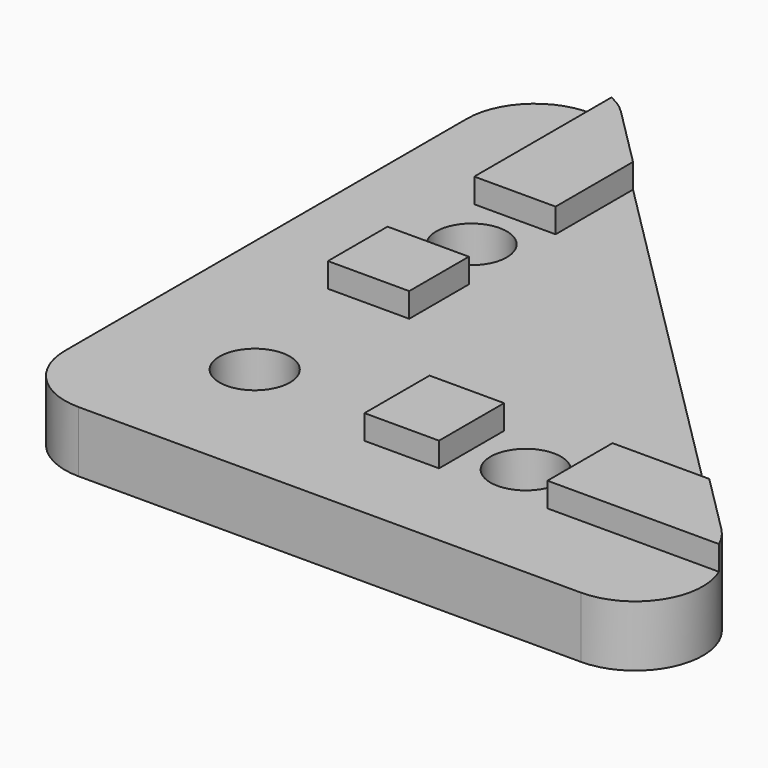
from build123d import *

# Parameters (mm, degrees)
F0_W     = 6
F0_H     = 8
F0_H_2   = 5.5
F0_H_3   = 7.5
F0_W_2   = 7
F0_H_4   = 6
F0_W_3   = 7.5
F0_W_4   = 5.5
F0_W_5   = 8
F0_H_5   = 7
F1_DEPTH = 4.5
F2_DEPTH = 1.8
F3_D     = 5.2
F4_R     = 5


with BuildPart() as f1:
    # F0 (on Top) → F1 (new body)
    with BuildSketch(Plane.XY):
        Polygon((-69.0596391448, 47.1421356237), (-76.0596391448, 54.1421356237), (-76.0596391448, 13), (-69.0596391448, 13), (-69.0596391448, 20.5), (-69.0596391448, 26), (-69.0596391448, 34), align=None)
        Polygon((-63.0596391448, 41.1421356237), (-69.0596391448, 47.1421356237), (-69.0596391448, 34), (-63.0596391448, 34), align=None)
        with Locations((-66.0596391448, 30)):
            Rectangle(F0_W, F0_H)
        with Locations((-66.0596391448, 23.25)):
            Rectangle(F0_W, F0_H_2)
        with Locations((-66.0596391448, 16.75)):
            Rectangle(F0_W, F0_H_3)
        Polygon((-34.9175035211, 13), (-63.0596391448, 41.1421356237), (-63.0596391448, 34), (-63.0596391448, 26), (-63.0596391448, 20.5), (-63.0596391448, 13), (-55.5596391448, 13), (-50.0596391448, 13), (-42.0596391448, 13), align=None)
        with Locations((-72.5596391448, 10)):
            Rectangle(F0_W_2, F0_H_4)
        with Locations((-66.0596391448, 10)):
            Rectangle(F0_W, F0_H_4)
        with Locations((-59.3096391448, 10)):
            Rectangle(F0_W_3, F0_H_4)
        with Locations((-52.8096391448, 10)):
            Rectangle(F0_W_4, F0_H_4)
        with Locations((-46.0596391448, 10)):
            Rectangle(F0_W_5, F0_H_4)
        Polygon((-28.9175035211, 7), (-34.9175035211, 13), (-42.0596391448, 13), (-42.0596391448, 7), align=None)
        Polygon((-55.5596391448, 7), (-63.0596391448, 7), (-63.0596391448, 0), (-21.9175035211, 0), (-28.9175035211, 7), (-42.0596391448, 7), (-50.0596391448, 7), align=None)
        with Locations((-66.0596391448, 3.5)):
            Rectangle(F0_W, F0_H_5)
        with Locations((-72.5596391448, 3.5)):
            Rectangle(F0_W_2, F0_H_5)
    extrude(amount=-F1_DEPTH)

    # F0 (on Top) → F2 (join)
    with BuildSketch(Plane.XY):
        Polygon((-63.0596391448, 41.1421356237), (-69.0596391448, 47.1421356237), (-69.0596391448, 34), (-63.0596391448, 34), align=None)
        with Locations((-66.0596391448, 23.25)):
            Rectangle(F0_W, F0_H_2)
        with Locations((-52.8096391448, 10)):
            Rectangle(F0_W_4, F0_H_4)
        Polygon((-28.9175035211, 7), (-34.9175035211, 13), (-42.0596391448, 13), (-42.0596391448, 7), align=None)
    extrude(amount=F2_DEPTH)

    # F3 (through all)
    with Locations(Plane.XY):
        with Locations((-66.0596391448, 30), (-66.0596391448, 10), (-46.0596391448, 10)):
            Hole(F3_D / 2)

    # F4
    f4_edges = [f1.edges().sort_by_distance(p)[0] for p in [
        (-21.917504, 0, -2.25),
        (-76.059639, 0, -2.25),
        (-76.059639, 54.142136, -2.25),
    ]]
    fillet(f4_edges, radius=F4_R)


solid = f1.part
